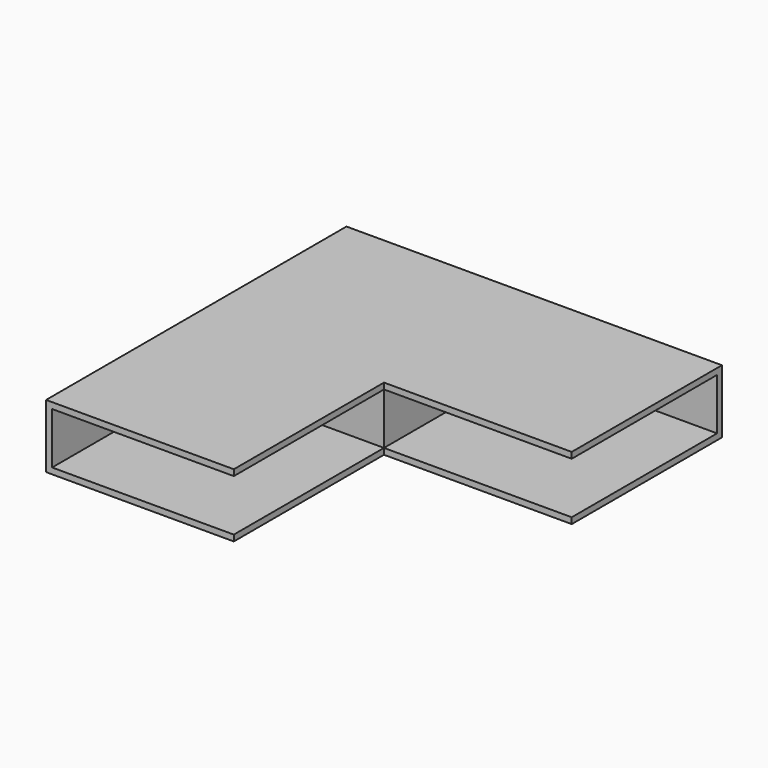
from build123d import *

# Parameters (mm, degrees)
F0_W     = 62
F0_H     = 62
F1_DEPTH = 21
F2_W     = 62
F2_H     = 17
F3_DEPTH = 60
F4_W     = 60
F4_H     = 17
F5_DEPTH = 62


with BuildPart() as f1:
    # F0 (on Top) → F1 (new body)
    with BuildSketch(Plane.XY):
        with Locations((62, 0)):
            Rectangle(F0_W, F0_H)
        Rectangle(F0_W, F0_H)
        with Locations((0, -62)):
            Rectangle(F0_W, F0_H)
    extrude(amount=F1_DEPTH)

    # F2 (on face) → F3 (cut)
    with BuildSketch(Plane.YZ.offset(31)):
        with Locations((-62, 10.5)):
            Rectangle(F2_W, F2_H)
    extrude(amount=-F3_DEPTH, mode=Mode.SUBTRACT)

    # F4 (on face) → F5 (cut)
    with BuildSketch(Plane.YZ.offset(93)):
        with Locations((-1, 10.5)):
            Rectangle(F4_W, F4_H)
    extrude(amount=-F5_DEPTH, mode=Mode.SUBTRACT)


solid = f1.part
